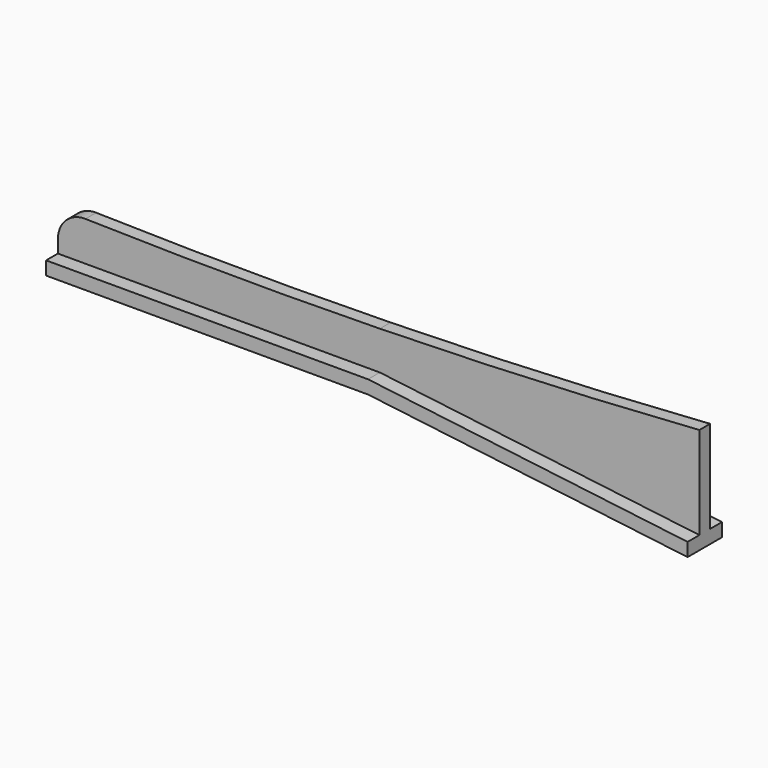
from build123d import *

# Parameters (mm, degrees)
F0_W     = 76.2
F0_H     = 3.175
F1_DEPTH = 5.08
F2_DEPTH = 1.5875


with BuildPart() as f1:
    # F0 (on Front) → F1 (new body, symmetric)
    with BuildSketch(Plane.XZ):
        with Locations((-2.54, -11.1125)):
            Rectangle(F0_W, F0_H)
        Polygon((61.4182999088, -12.7), (35.56, -12.7), (111.1920167551, -21.9864439675), (111.1920167551, -18.8114439675), align=None)
        Polygon((35.56, -9.525), (35.56, -12.7), (61.4182999088, -12.7), align=None)
    extrude(amount=F1_DEPTH, both=True)

    # F0 (on Front) → F2 (join, symmetric)
    with BuildSketch(Plane.XZ):
        with BuildLine():
            Line((-40.64, -6.5354025636), (-40.64, -9.525))
            Line((-40.64, -9.525), (35.56, -9.525))
            Line((35.56, -9.525), (35.56, -0.4003915331))
            ThreePointArc((35.56, -0.4003915331), (0.7181183693, -0.7038166263), (-34.1212609181, -0.1876449184))
            ThreePointArc((-34.1212609181, -0.1876449184), (-38.720068105, -1.9860073747), (-40.64, -6.5354025636))
        make_face()
        with BuildLine():
            Line((35.56, -0.4003915331), (35.56, -9.525))
            Line((35.56, -9.525), (61.4182999088, -12.7))
            Line((61.4182999088, -12.7), (111.1920167551, -12.7))
            Line((111.1920167551, -12.7), (111.1920167551, 3.0833560325))
            ThreePointArc((111.1920167551, 3.0833560325), (73.3982701467, 0.858180154), (35.56, -0.4003915331))
        make_face()
        Polygon((111.1920167551, -12.7), (61.4182999088, -12.7), (111.1920167551, -18.8114439675), align=None)
    extrude(amount=F2_DEPTH, both=True)


solid = f1.part
